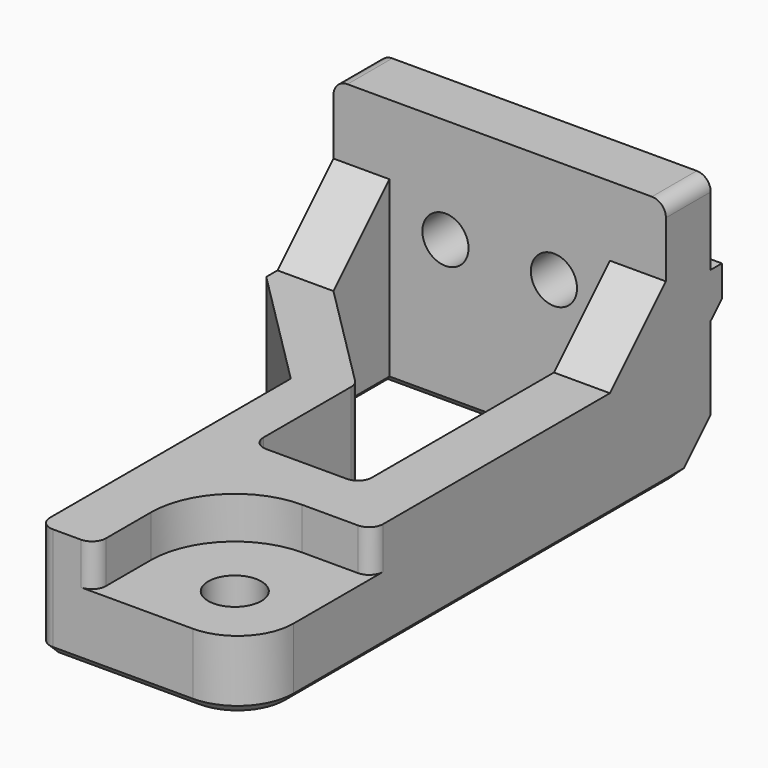
from build123d import *

# Parameters (mm, degrees)
SKETCH010_W                                = 23.75
SKETCH010_H                                = 41.25
PAD003_DEPTH                               = 18
CHAMFER004013007011015006009007001028_SIZE = 3
SKETCH011_R                                = 1.9
POCKET007_DEPTH                            = 18.001
POCKET008_DEPTH                            = 13
FILLET_R                                   = 4
POCKET009_DEPTH                            = 18.001
FILLET001_R                                = 1
POCKET010_DEPTH                            = 23.751
FILLET002_R                                = 1
POCKET011_DEPTH                            = 18.001
FILLET003_R                                = 1
SKETCH016_R                                = 1.65
POCKET012_DEPTH                            = 41.251
SKETCH017_W                                = 6
SKETCH017_H                                = 3.2
SKETCH017_W_2                              = 3.75
PAD004_DEPTH                               = 1
CHAMFER004013007011015006009007001029_SIZE = 0.99
CHAMFER004013007011015006009007001030_SIZE = 0.6
CHAMFER004013007011015006009007001031_SIZE = 0.6


with BuildPart() as part:
    # Sketch010 → Pad003 (new body)
    with BuildSketch(Plane.XY):
        with Locations((11.875, -20.625)):
            Rectangle(SKETCH010_W, SKETCH010_H)
    extrude(amount=PAD003_DEPTH)

    # Chamfer004013007011015006009007001028
    chamfer004013007011015006009007001028_edges = [part.edges().sort_by_distance(p)[0] for p in [
        (11.875, 0, 0),
    ]]
    chamfer(chamfer004013007011015006009007001028_edges, length=CHAMFER004013007011015006009007001028_SIZE)

    # Sketch011 (on Face4 of Chamfer004013007011015006009007001028) → Pocket007 (cut, through all)
    with BuildSketch(Plane.XY.offset(18)):
        with Locations((18.75, -36.25)):
            Circle(SKETCH011_R)
    extrude(amount=-POCKET007_DEPTH, mode=Mode.SUBTRACT)

    # Sketch012 (on Face4 of Pocket007) → Pocket008 (cut)
    with BuildSketch(Plane.XY.offset(18)):
        with BuildLine():
            ThreePointArc((18.75, -30.25), (14.507359, -32.007359), (12.75, -36.25))
            Line((12.75, -41.25), (12.75, -36.25))
            Line((23.75, -41.25), (12.75, -41.25))
            Line((23.75, -30.25), (23.75, -41.25))
            Line((18.75, -30.25), (23.75, -30.25))
        make_face()
    extrude(amount=-POCKET008_DEPTH, mode=Mode.SUBTRACT)

    # Fillet
    fillet_edges = [part.edges().sort_by_distance(p)[0] for p in [
        (23.75, -41.25, 2.5),
    ]]
    fillet(fillet_edges, radius=FILLET_R)

    # Sketch013 (on Face8 of Fillet) → Pocket009 (cut, through all)
    with BuildSketch(Plane.XY.offset(18)):
        Polygon((0, -10), (0, -41.25), (8.75, -41.25), (8.75, -18.75), align=None)
    extrude(amount=-POCKET009_DEPTH, mode=Mode.SUBTRACT)

    # Fillet001
    fillet001_edges = [part.edges().sort_by_distance(p)[0] for p in [
        (8.75, -41.25, 9),
        (12.75, -41.25, 11.5),
        (23.75, -30.25, 11.5),
    ]]
    fillet(fillet001_edges, radius=FILLET001_R)

    # Sketch014 (on Face1 of Fillet001) → Pocket010 (cut, through all)
    with BuildSketch(Plane.YZ.offset(23.75)):
        Polygon((-42, 8), (-42, 19), (-4, 19), (-4, 13), (-9, 8), align=None)
    extrude(amount=-POCKET010_DEPTH, mode=Mode.SUBTRACT)

    # Fillet002
    fillet002_edges = [part.edges().sort_by_distance(p)[0] for p in [
        (0, -2, 18),
        (23.75, -2, 18),
    ]]
    fillet(fillet002_edges, radius=FILLET002_R)

    # Sketch015 (on Face14 of Fillet002) → Pocket011 (cut, through all)
    with BuildSketch(Plane.XY.offset(18)):
        Polygon((4, -4), (19.75, -4), (19.75, -26.25), (12, -26.25), (12, -17), (4, -9), align=None)
    extrude(amount=-POCKET011_DEPTH, mode=Mode.SUBTRACT)

    # Fillet003
    fillet003_edges = [part.edges().sort_by_distance(p)[0] for p in [
        (12, -26.25, 4),
        (19.75, -26.25, 4),
        (12, -17, 4),
    ]]
    fillet(fillet003_edges, radius=FILLET003_R)

    # Sketch016 (on Face26 of Fillet003) → Pocket012 (cut, through all)
    with BuildSketch(Plane(origin=(0, 0, 0), x_dir=(-1, 0, 0), z_dir=(0, 1, 0))):
        with Locations((-15.75, 10.5)):
            Circle(SKETCH016_R)
        with Locations((-8, 10.5)):
            Circle(SKETCH016_R)
    extrude(amount=-POCKET012_DEPTH, mode=Mode.SUBTRACT)

    # Sketch017 (on Face28 of Pocket012) → Pad004 (join)
    with BuildSketch(Plane(origin=(0, 0, 0), x_dir=(-1, 0, 0), z_dir=(0, 1, 0))):
        with Locations((-20.75, 10.5)):
            Rectangle(SKETCH017_W, SKETCH017_H)
        with Locations((-11.875, 10.5)):
            Rectangle(SKETCH017_W_2, SKETCH017_H)
        with Locations((-3, 10.5)):
            Rectangle(SKETCH017_W, SKETCH017_H)
    extrude(amount=PAD004_DEPTH)

    # Chamfer004013007011015006009007001029
    chamfer004013007011015006009007001029_edges = [part.edges().sort_by_distance(p)[0] for p in [
        (20.75, 1, 8.9),
        (11.875, 1, 8.9),
        (3, 1, 8.9),
    ]]
    chamfer(chamfer004013007011015006009007001029_edges, length=CHAMFER004013007011015006009007001029_SIZE)

    # Chamfer004013007011015006009007001030
    chamfer004013007011015006009007001030_edges = [part.edges().sort_by_distance(p)[0] for p in [
        (0, -6.5, 0),
        (4.375, -14.375, 0),
        (8.75, -29.5, 0),
        (9.042893, -40.957107, 0),
        (14.75, -41.25, 0),
        (22.578427, -40.078427, 0),
        (16.85, -36.25, 0),
        (23.75, -20.125, 0),
    ]]
    chamfer(chamfer004013007011015006009007001030_edges, length=CHAMFER004013007011015006009007001030_SIZE)

    # Chamfer004013007011015006009007001031
    chamfer004013007011015006009007001031_edges = [part.edges().sort_by_distance(p)[0] for p in [
        (11.875, -4, 0),
        (4, -6.5, 0),
        (7.853553, -12.853553, 0),
        (11.92388, -17.03153, 0),
        (12, -21.332107, 0),
        (12.292893, -25.957107, 0),
        (15.875, -26.25, 0),
        (19.457107, -25.957107, 0),
        (19.75, -14.625, 0),
    ]]
    chamfer(chamfer004013007011015006009007001031_edges, length=CHAMFER004013007011015006009007001031_SIZE)


solid = part.part
